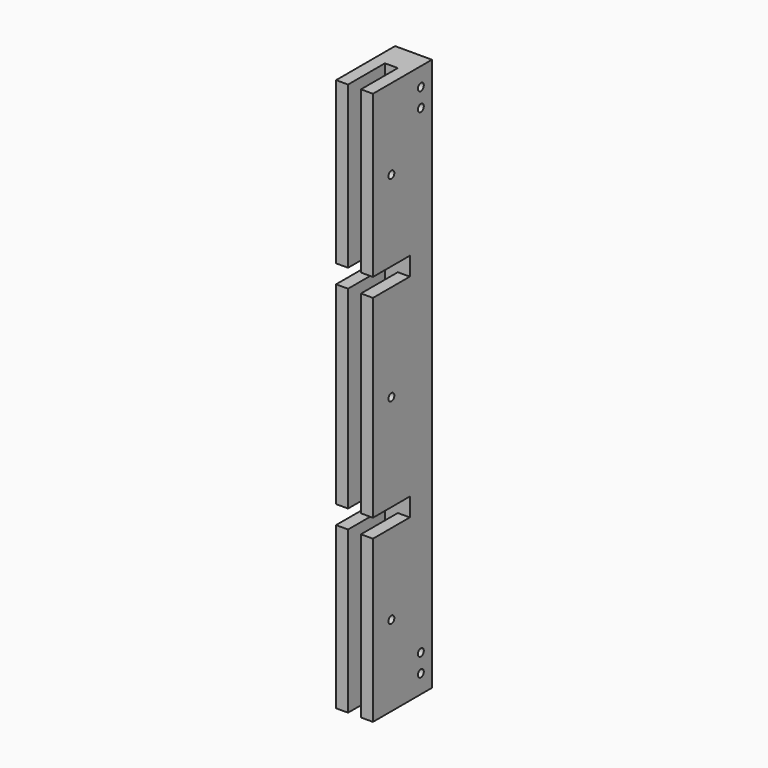
from build123d import *

# Parameters (mm, degrees)
F1_DEPTH = 300
F2_W     = 25
F2_H     = 10
F2_R     = 2
F3_DEPTH = 20.001


with BuildPart() as f1:
    # F0 (on Top) → F1 (new body)
    with BuildSketch(Plane.XY):
        Polygon((20, 40), (0, 40), (0, 0), (6.5, 0), (6.5, 25), (13.5, 25), (13.5, 0), (20, 0), align=None)
    extrude(amount=F1_DEPTH)

    # F2 (on face) → F3 (cut, through all)
    with BuildSketch(Plane.YZ.offset(20)):
        with Locations((12.5, 207.5)):
            Rectangle(F2_W, F2_H)
        with Locations((12.5, 92.5)):
            Rectangle(F2_W, F2_H)
        with Locations((12.5, 256.25)):
            Circle(F2_R)
        with Locations((32.5, 280)):
            Circle(F2_R)
        with Locations((32.5, 290)):
            Circle(F2_R)
        with Locations((12.5, 150)):
            Circle(F2_R)
        with Locations((12.5, 43.75)):
            Circle(F2_R)
        with Locations((32.5, 20)):
            Circle(F2_R)
        with Locations((32.5, 10)):
            Circle(F2_R)
    extrude(amount=-F3_DEPTH, mode=Mode.SUBTRACT)


solid = f1.part
